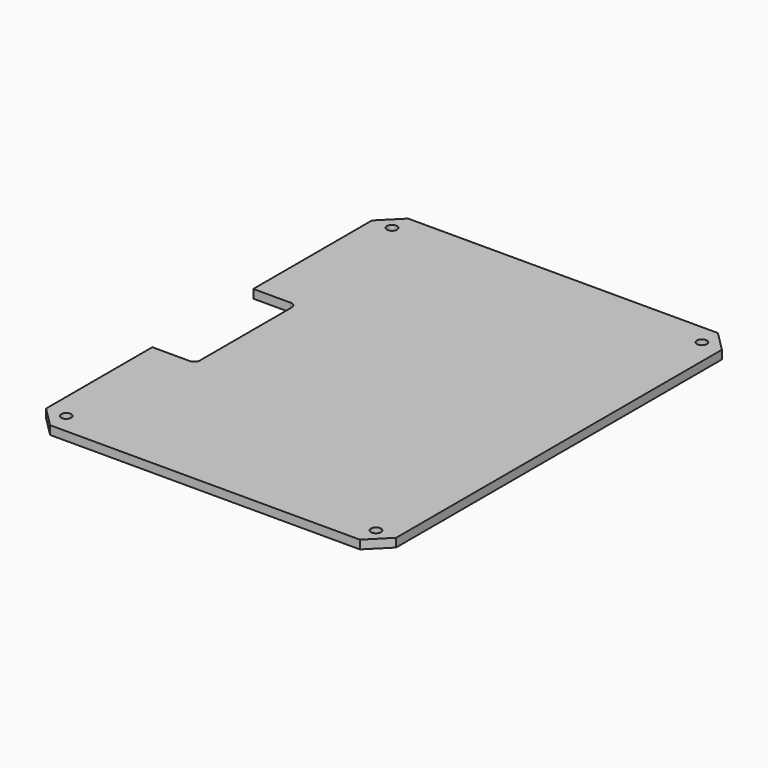
from build123d import *

# Parameters (mm, degrees)
PAD_DEPTH       = 3
SKETCH005_R     = 1.75
POCKET004_DEPTH = 3.001
SKETCH006_W     = 15
SKETCH006_H     = 44
POCKET_DEPTH    = 3.001
FILLET_R        = 2


with BuildPart() as part:
    # Sketch → Pad (new body)
    with BuildSketch(Plane.XY):
        Polygon((-61, 71), (-54, 78), (54, 78), (61, 71), (61, -71), (54, -78), (-54, -78), (-61, -71), align=None)
    extrude(amount=PAD_DEPTH)

    # Sketch005 → Pocket004 (cut, through all)
    with BuildSketch(Plane.XY.offset(3)):
        with Locations((-54, 71)):
            Circle(SKETCH005_R)
        with Locations((54, 71)):
            Circle(SKETCH005_R)
        with Locations((-54, -71)):
            Circle(SKETCH005_R)
        with Locations((54, -71)):
            Circle(SKETCH005_R)
    extrude(amount=-POCKET004_DEPTH, mode=Mode.SUBTRACT)

    # Sketch006 (on Face5 of Pocket004) → Pocket (cut, through all)
    with BuildSketch(Plane.XY.offset(3)):
        with Locations((-53.5, -2.7)):
            Rectangle(SKETCH006_W, SKETCH006_H)
    extrude(amount=-POCKET_DEPTH, mode=Mode.SUBTRACT)

    # Fillet
    fillet_edges = [part.edges().sort_by_distance(p)[0] for p in [
        (-46, 19.3, 1.5),
        (-46, -24.7, 1.5),
    ]]
    fillet(fillet_edges, radius=FILLET_R)


solid = part.part
